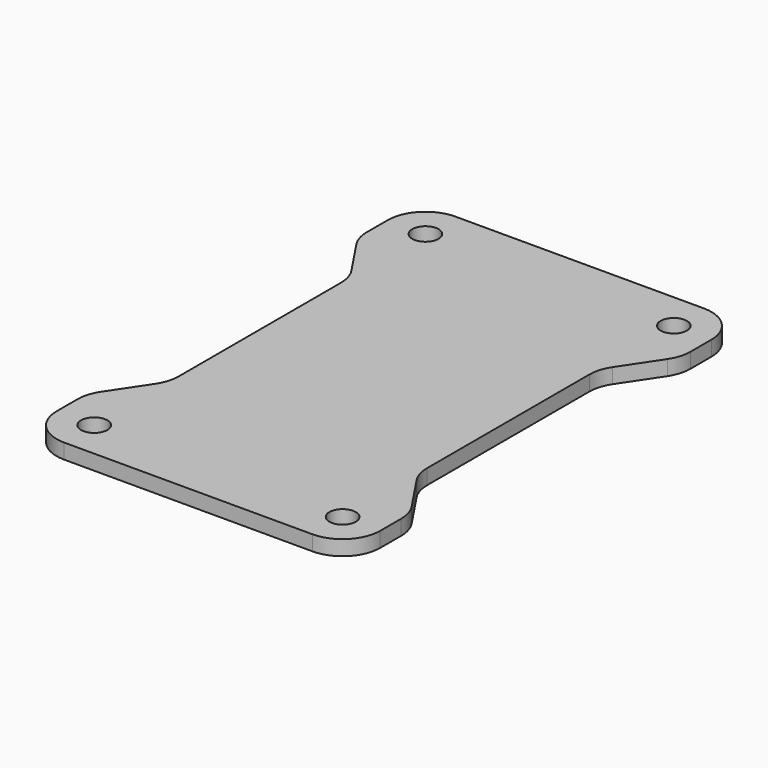
from build123d import *

# Parameters (mm, degrees)
F1_DEPTH = 2
F2_R     = 1.75
F3_DEPTH = 25
F4_R     = 5


with BuildPart() as f1:
    # F0 (on Top) → F1 (new body)
    with BuildSketch(Plane.XY):
        Polygon((21.5, 32.5), (-21.5, 32.5), (-21.5, 22.5), (-16.5, 15), (-16.5, -15), (-21.5, -22.5), (-21.5, -32.5), (21.5, -32.5), (21.5, -22.5), (16.5, -15), (16.5, 15), (21.5, 22.5), align=None)
    extrude(amount=F1_DEPTH)

    # F2 (on Top) → F3 (cut)
    with BuildSketch(Plane.XY):
        with Locations((-16.5, 27.5)):
            Circle(F2_R)
        with Locations((16.5, 27.5)):
            Circle(F2_R)
        with Locations((16.5, -27.5)):
            Circle(F2_R)
        with Locations((-16.5, -27.5)):
            Circle(F2_R)
    extrude(amount=F3_DEPTH, mode=Mode.SUBTRACT)

    # F4
    f4_edges = [f1.edges().sort_by_distance(p)[0] for p in [
        (-21.5, 32.5, 1),
        (21.5, 32.5, 1),
        (21.5, -32.5, 1),
        (-21.5, -32.5, 1),
        (21.5, 22.5, 1),
        (16.5, 15, 1),
        (16.5, -15, 1),
        (21.5, -22.5, 1),
        (-21.5, -22.5, 1),
        (-16.5, -15, 1),
        (-16.5, 15, 1),
        (-21.5, 22.5, 1),
    ]]
    fillet(f4_edges, radius=F4_R)


solid = f1.part
